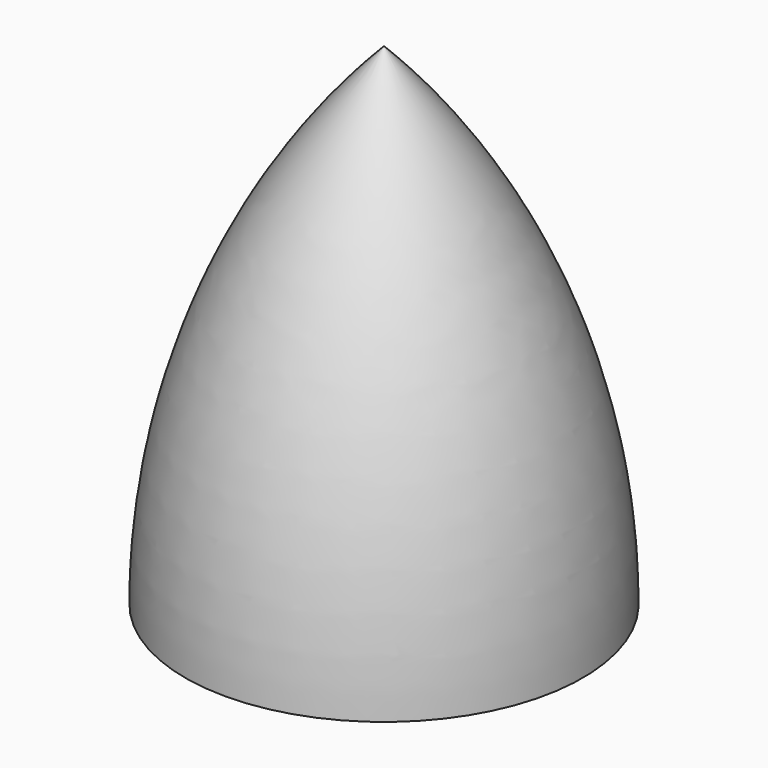
from build123d import *

# Parameters (mm, degrees)
F3_ANGLE = 90


with BuildPart() as f1:
    # F0 (on Top) → F1 (revolve)
    with BuildSketch(Plane.XY):
        with BuildLine():
            Line((0, 8.9), (0, 7.9))
            Line((0, 7.9), (2.4, 7.9))
            Line((2.4, 7.9), (2.4, 6.8))
            Line((2.4, 6.8), (5.4, 6.8))
            ThreePointArc((5.4, 6.8), (13.721537482, 4.5964683411), (21, 0))
            Line((21, 0), (22, 0))
            ThreePointArc((22, 0), (11.8660229226, 6.5907308199), (0, 8.9))
        make_face()
    revolve(axis=Axis((12.5827532146, 0, 0), (1, 0, 0)))


with BuildPart() as f1_1:
    # F3: moved
    add(f1.part.rotate(Axis((0, 0, 0), (0, -1, 0)), F3_ANGLE))


solid = f1_1.part
